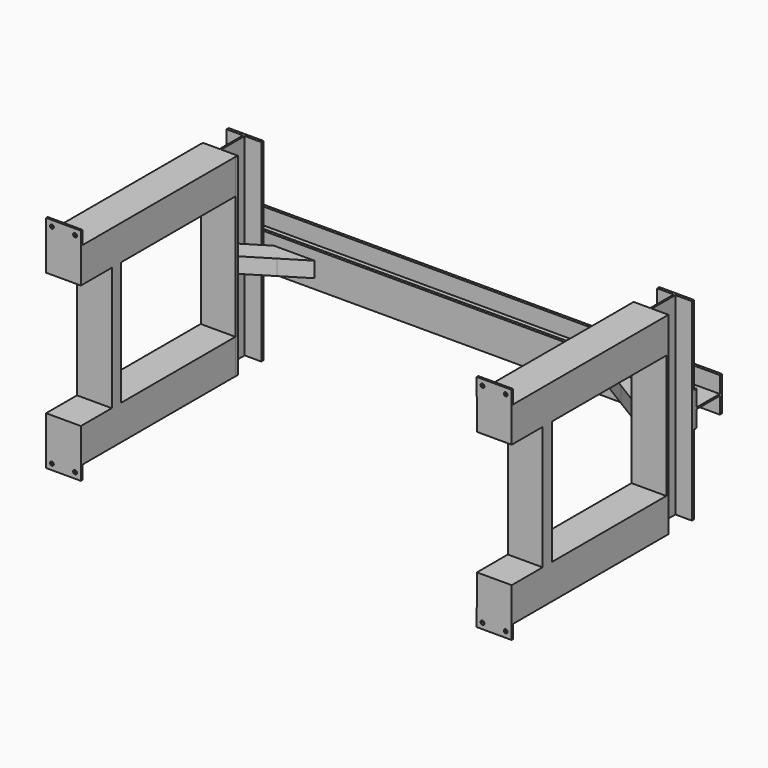
from build123d import *

# Parameters (mm, degrees)
F0_W      = 8.5
F0_H      = 152
F1_DEPTH  = 500
F3_DEPTH  = 2409
F4_W      = 180
F4_H      = 180
F5_DEPTH  = 1000
F6_W      = 180
F6_H      = 60
F7_DEPTH  = 700
F8_W      = 180
F8_H      = 60
F9_DEPTH  = 700
F11_DEPTH = 40
F12_W     = 180
F12_H     = 90
F13_DEPTH = 10
F14_R     = 10
F15_DEPTH = 25


with BuildPart() as f1:
    # F0 (on Top) → F1 (new body, symmetric)
    with BuildSketch(Plane.XY):
        Polygon((-1204.5, -90), (-1024.5, -90), (-1024.5, -76), (-1110.25, -76), (-1118.75, -76), (-1204.5, -76), align=None)
        with Locations((-1114.5, 0)):
            Rectangle(F0_W, F0_H)
        Polygon((-1118.75, 76), (-1110.25, 76), (-1024.5, 76), (-1024.5, 90), (-1204.5, 90), (-1204.5, 76), align=None)
        Polygon((1024.5, -90), (1204.5, -90), (1204.5, -76), (1118.75, -76), (1110.25, -76), (1024.5, -76), align=None)
        with Locations((1114.5, 0)):
            Rectangle(F0_W, F0_H)
        Polygon((1110.25, 76), (1118.75, 76), (1204.5, 76), (1204.5, 90), (1024.5, 90), (1024.5, 76), align=None)
    extrude(amount=F1_DEPTH, both=True)

    # F4 (on face) → F5 (join)
    with BuildSketch(Plane.XZ.offset(90)):
        with Locations((1114.5, -410)):
            Rectangle(F4_W, F4_H)
        with Locations((-1115.5, -410)):
            Rectangle(F4_W, F4_H)
        with Locations((-1115.5, 410)):
            Rectangle(F4_W, F4_H)
        with Locations((1114.5, 410)):
            Rectangle(F4_W, F4_H)
    extrude(amount=F5_DEPTH)

    # F6 (on face) → F7 (join)
    with BuildSketch(Plane(origin=(0, 0, 320), x_dir=(1, 0, 0), z_dir=(0, 0, -1))):
        with Locations((1114.5, 860)):
            Rectangle(F6_W, F6_H)
    extrude(amount=F7_DEPTH)

    # F8 (on face) → F9 (join)
    with BuildSketch(Plane(origin=(0, 0, 320), x_dir=(1, 0, 0), z_dir=(0, 0, -1))):
        with Locations((-1115.5, 860)):
            Rectangle(F8_W, F8_H)
    extrude(amount=F9_DEPTH)

    # F12 (on face) → F13 (join)
    with BuildSketch(Plane.XZ.offset(1090)):
        with Locations((-1115.5, 525)):
            Rectangle(F12_W, F12_H)
        with Locations((-1115.5, -525)):
            Rectangle(F12_W, F12_H)
        with Locations((1113.5, 525)):
            Rectangle(F12_W, F12_H)
        with Locations((1113.5, -525)):
            Rectangle(F12_W, F12_H)
    extrude(amount=-F13_DEPTH)

    # F14 (on face) → F15 (cut)
    with BuildSketch(Plane.XZ.offset(1090)):
        with Locations((-1175.5, 540)):
            Circle(F14_R)
        with Locations((-1055.5, 540)):
            Circle(F14_R)
        with Locations((-1055.5, -540)):
            Circle(F14_R)
        with Locations((-1175.5, -540)):
            Circle(F14_R)
        with Locations((1173.5, 540)):
            Circle(F14_R)
        with Locations((1053.5, 540)):
            Circle(F14_R)
        with Locations((1173.5, -540)):
            Circle(F14_R)
        with Locations((1053.5, -540)):
            Circle(F14_R)
    extrude(amount=-F15_DEPTH, mode=Mode.SUBTRACT)


with BuildPart() as f3:
    # F2 (on face) → F3 (new body)
    with BuildSketch(Plane.YZ.offset(1204.5)):
        Polygon((90, 90), (90, -90), (104, -90), (104, -4.25), (256, -4.25), (256, -90), (270, -90), (270, 90), (256, 90), (256, 4.25), (104, 4.25), (104, 90), align=None)
    extrude(amount=-F3_DEPTH)


with BuildPart() as f11:
    # F10 (on Top) → F11 (new body, symmetric)
    with BuildSketch(Plane.XY):
        Polygon((-890.25, 90), (-970.25, 90), (-1110.25, 4), (-1110.25, -76), (-1030.25, -76), (-890.25, 10), (-760.017442, 90), align=None)
        Polygon((1110.25, -76), (1110.25, 4), (970.25, 90), (890.25, 90), (760.017442, 90), (890.25, 10), (1030.25, -76), align=None)
    extrude(amount=F11_DEPTH, both=True)


solid = Compound([f1.part, f3.part, f11.part])
